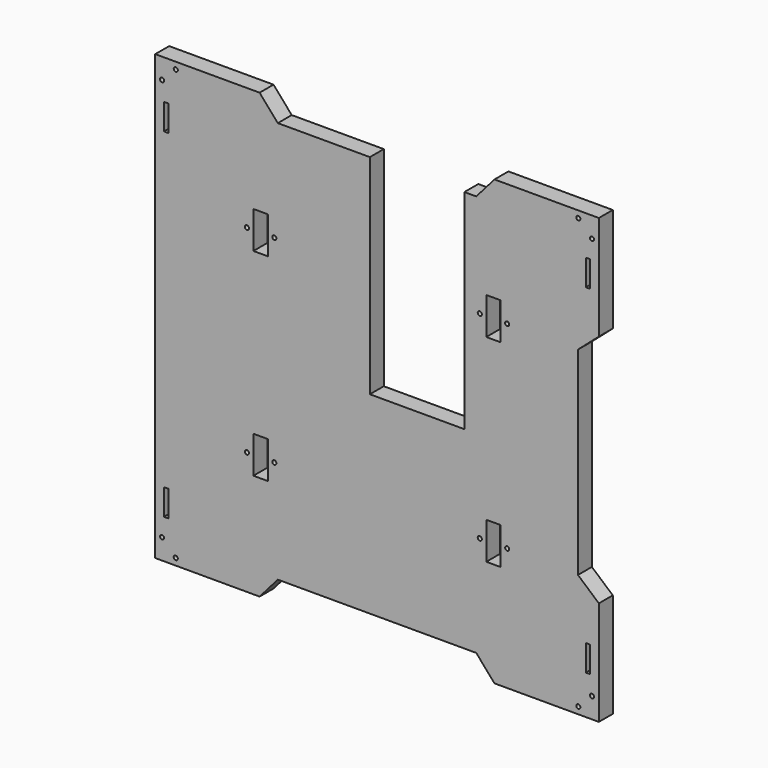
from build123d import *

# Parameters (mm, degrees)
F0_R     = 1.5
F0_W     = 3.175
F0_H     = 19.05
F0_W_2   = 10.5
F0_H_2   = 27
F1_DEPTH = 12.7


with BuildPart() as f1:
    # F0 (on Front) → F1 (new body)
    with BuildSketch(Plane.XZ):
        Polygon((-85.725, 161.925), (-161.925, 161.925), (-161.925, 85.725), (-146.685, 72.43161), (-146.685, -72.43161), (-161.925, -85.725), (-161.925, -161.925), (-85.725, -161.925), (-72.43161, -146.685), (72.43161, -146.685), (85.725, -161.925), (161.925, -161.925), (161.925, -85.725), (146.685, -72.43161), (146.685, 72.43161), (161.925, 85.725), (161.925, 161.925), (85.725, 161.925), (72.43161, 146.685), (63.7538, 146.685), (63.7538, -5.715), (-5.2462, -5.715), (-5.2462, 146.685), (-72.43161, 146.685), align=None)
        with Locations((-146.925, -156.925)):
            Circle(F0_R, mode=Mode.SUBTRACT)
        with Locations((-156.925, -146.925)):
            Circle(F0_R, mode=Mode.SUBTRACT)
        with Locations((-153.9875, -123.825)):
            Rectangle(F0_W, F0_H, mode=Mode.SUBTRACT)
        with Locations((-94.9964, -72.225)):
            Circle(F0_R, mode=Mode.SUBTRACT)
        with Locations((-84.9962, -72.225)):
            Rectangle(F0_W_2, F0_H_2, mode=Mode.SUBTRACT)
        with Locations((-74.9964, -72.225)):
            Circle(F0_R, mode=Mode.SUBTRACT)
        with Locations((146.925, -156.925)):
            Circle(F0_R, mode=Mode.SUBTRACT)
        with Locations((156.925, -146.925)):
            Circle(F0_R, mode=Mode.SUBTRACT)
        with Locations((153.9875, -123.825)):
            Rectangle(F0_W, F0_H, mode=Mode.SUBTRACT)
        with Locations((75.0036, -72.225)):
            Circle(F0_R, mode=Mode.SUBTRACT)
        with Locations((85.0038, -72.225)):
            Rectangle(F0_W_2, F0_H_2, mode=Mode.SUBTRACT)
        with Locations((95.0036, -72.225)):
            Circle(F0_R, mode=Mode.SUBTRACT)
        with Locations((-94.9964, 72.225)):
            Circle(F0_R, mode=Mode.SUBTRACT)
        with Locations((-84.9962, 72.225)):
            Rectangle(F0_W_2, F0_H_2, mode=Mode.SUBTRACT)
        with Locations((-74.9964, 72.225)):
            Circle(F0_R, mode=Mode.SUBTRACT)
        with Locations((-153.9875, 123.825)):
            Rectangle(F0_W, F0_H, mode=Mode.SUBTRACT)
        with Locations((-156.925, 146.925)):
            Circle(F0_R, mode=Mode.SUBTRACT)
        with Locations((-146.925, 156.925)):
            Circle(F0_R, mode=Mode.SUBTRACT)
        with Locations((75.0036, 72.225)):
            Circle(F0_R, mode=Mode.SUBTRACT)
        with Locations((85.0038, 72.225)):
            Rectangle(F0_W_2, F0_H_2, mode=Mode.SUBTRACT)
        with Locations((95.0036, 72.225)):
            Circle(F0_R, mode=Mode.SUBTRACT)
        with Locations((153.9875, 123.825)):
            Rectangle(F0_W, F0_H, mode=Mode.SUBTRACT)
        with Locations((156.925, 146.925)):
            Circle(F0_R, mode=Mode.SUBTRACT)
        with Locations((146.925, 156.925)):
            Circle(F0_R, mode=Mode.SUBTRACT)
        Polygon((-146.685, 72.43161), (-161.925, 85.725), (-161.925, -85.725), (-146.685, -72.43161), align=None)
    extrude(amount=F1_DEPTH)


solid = f1.part
